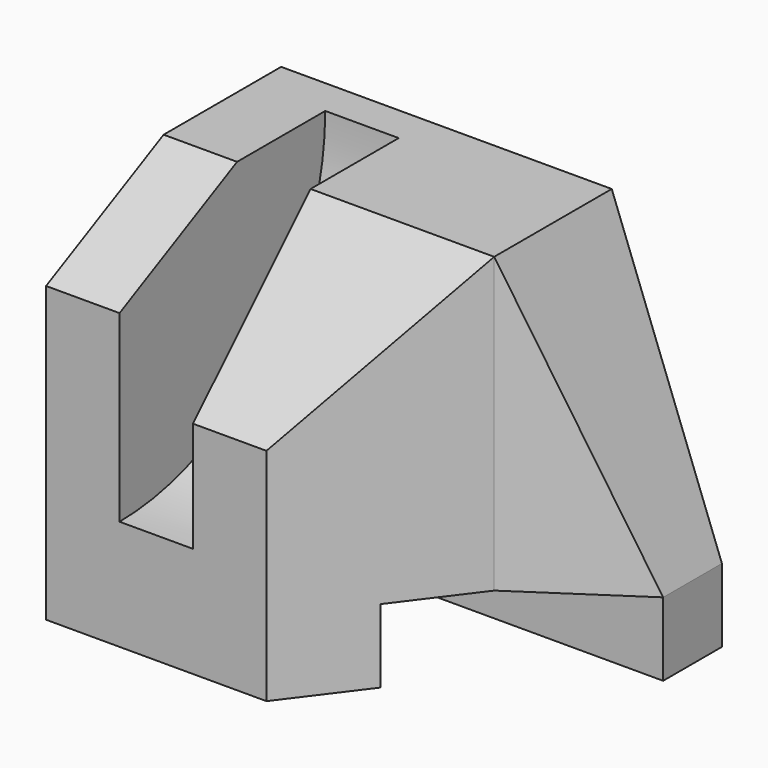
from build123d import *

# Parameters (mm, degrees)
F0_W      = 60
F0_H      = 40
F1_DEPTH  = 50
F2_W      = 10
F2_H      = 35
F5_DEPTH  = 10
F6_W      = 20
F6_H      = 10
F7_DEPTH  = 60.001
F9_DEPTH  = 25
F10_DEPTH = 75.001
F12_DEPTH = 40.001
F14_DEPTH = 25.001


with BuildPart() as f1:
    # F0 (on Top) → F1 (new body)
    with BuildSketch(Plane.XY):
        with Locations((30, 20)):
            Rectangle(F0_W, F0_H)
    extrude(amount=F1_DEPTH)

    # F2 (on face) → F3 (revolve, cut)
    with BuildSketch(Plane.XZ):
        with Locations((15, 32.5)):
            Rectangle(F2_W, F2_H)
    revolve(axis=Axis((15, 0, 50), (1, 0, 0)), mode=Mode.SUBTRACT)

    # F4 (on face) → F5 (cut, through all)
    with BuildSketch(Plane(origin=(0, 0, 0), x_dir=(0, -1, 0), z_dir=(-1, 0, 0))):
        Polygon((0, 50), (-20, 50), (0, 40), align=None)
    extrude(amount=-F5_DEPTH, mode=Mode.SUBTRACT)

    # F6 (on face) → F7 (cut, through all)
    with BuildSketch(Plane(origin=(0, 0, 0), x_dir=(0, -1, 0), z_dir=(-1, 0, 0))):
        with Locations((-20, 5)):
            Rectangle(F6_W, F6_H)
    extrude(amount=-F7_DEPTH, mode=Mode.SUBTRACT)

    # F8 (on face) → F9 (join)
    with BuildSketch(Plane.XY.offset(50)):
        Polygon((45, 20), (30, 0), (60, 0), (60, 30), align=None)
    extrude(amount=F9_DEPTH)

    # F10 (cut, through all): a face of the model
    f10_faces = [f1.faces().sort_by_distance(p)[0] for p in [
        (49.2857142857, 10.9523809524, 75),
    ]]
    extrude(f10_faces, amount=-F10_DEPTH, mode=Mode.SUBTRACT)

    # F11 (on Front) → F12 (cut, through all)
    with BuildSketch(Plane.XZ):
        Polygon((60, 50), (45, 50), (60, 10), align=None)
    extrude(amount=-F12_DEPTH, mode=Mode.SUBTRACT)

    # F13 (on face) → F14 (cut, through all)
    with BuildSketch(Plane(origin=(20, 0, 0), x_dir=(0, -1, 0), z_dir=(-1, 0, 0))):
        Polygon((0, 30), (0, 50), (-20, 50), align=None)
    extrude(amount=-F14_DEPTH, mode=Mode.SUBTRACT)


solid = f1.part
